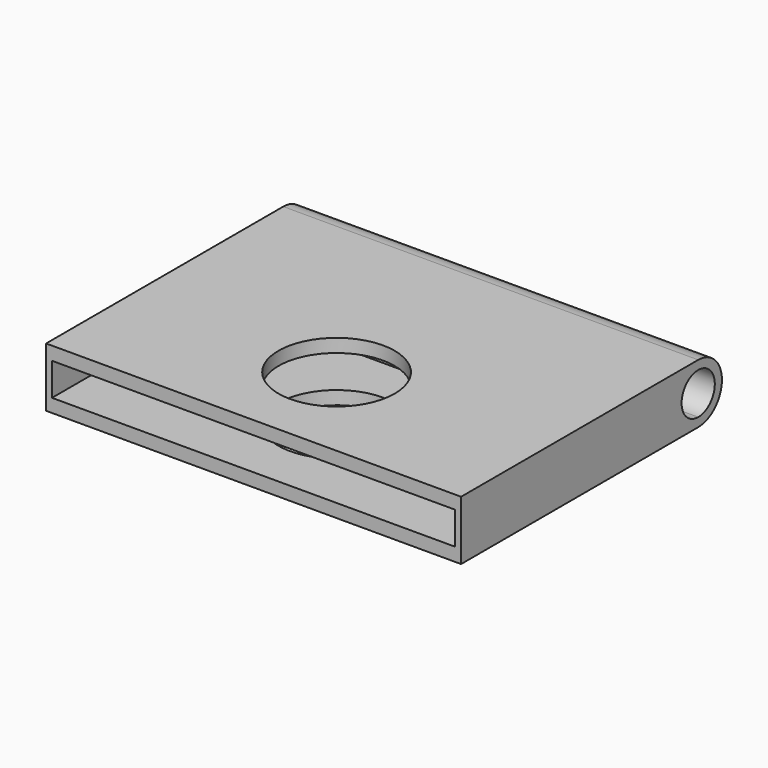
from build123d import *

# Parameters (mm, degrees)
F0_W     = 17.78
F0_H     = 12.7
F0_R     = 2.4892
F1_DEPTH = 2.54
F2_W     = 17.272
F2_H     = 1.397
F3_DEPTH = 8.89
F5_DEPTH = 17.78
F6_DEPTH = 25.4


with BuildPart() as f1:
    # F0 (on Top) → F1 (new body)
    with BuildSketch(Plane.XY):
        with Locations((8.89, 6.35)):
            Rectangle(F0_W, F0_H)
        with Locations((8.89, 4.445)):
            Circle(F0_R, mode=Mode.SUBTRACT)
    extrude(amount=F1_DEPTH)

    # F2 (on face) → F3 (cut)
    with BuildSketch(Plane.XZ):
        with Locations((8.89, 1.27)):
            Rectangle(F2_W, F2_H)
    extrude(amount=-F3_DEPTH, mode=Mode.SUBTRACT)

    # F4 (on face) → F5 (join)
    with BuildSketch(Plane(origin=(0, 0, 0), x_dir=(0, -1, 0), z_dir=(-1, 0, 0))):
        with BuildLine():
            Line((-12.7, 2.159), (-12.7, 2.54))
            ThreePointArc((-12.7, 2.54), (-13.97, 1.27), (-12.7, 0))
            Line((-12.7, 0), (-12.7, 0.381))
            ThreePointArc((-12.7, 0.381), (-13.589, 1.27), (-12.7, 2.159))
        make_face()
    extrude(amount=-F5_DEPTH)

    # F4 (on face) → F6 (cut)
    with BuildSketch(Plane(origin=(0, 0, 0), x_dir=(0, -1, 0), z_dir=(-1, 0, 0))):
        with BuildLine():
            ThreePointArc((-11.811, 1.27), (-12.071382, 1.898618), (-12.7, 2.159))
            Line((-12.7, 2.159), (-12.7, 0.381))
            ThreePointArc((-12.7, 0.381), (-12.071382, 0.641382), (-11.811, 1.27))
        make_face()
    extrude(amount=-F6_DEPTH, mode=Mode.SUBTRACT)


solid = f1.part
